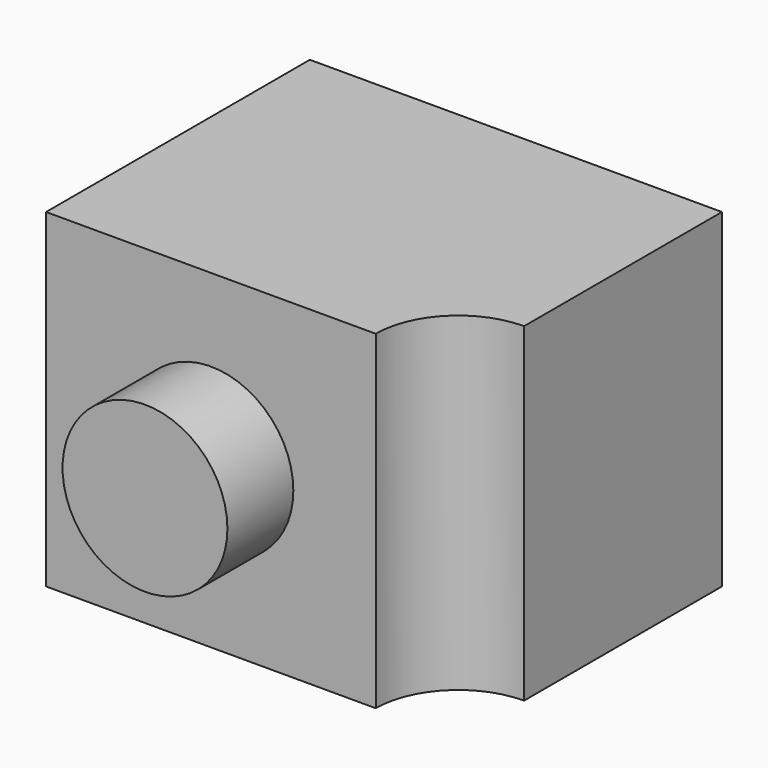
from build123d import *

# Parameters (mm, degrees)
F0_W     = 5
F0_H     = 4
F1_DEPTH = 4
F2_R     = 1
F3_DEPTH = 4.1
F4_R     = 1
F5_DEPTH = 1


with BuildPart() as f1:
    # F0 (on Top) → F1 (new body)
    with BuildSketch(Plane.XY):
        with Locations((21.835487, 15.660429)):
            Rectangle(F0_W, F0_H)
    extrude(amount=F1_DEPTH)

    # F2 (on face) → F3 (cut)
    with BuildSketch(Plane.XY.offset(4)):
        with Locations((24.335487, 13.660429)):
            Circle(F2_R)
    extrude(amount=-F3_DEPTH, mode=Mode.SUBTRACT)

    # F4 (on face) → F5 (join)
    with BuildSketch(Plane.XZ.offset(-13.660429)):
        with Locations((21.335487, 2)):
            Circle(F4_R)
    extrude(amount=F5_DEPTH)


solid = f1.part
